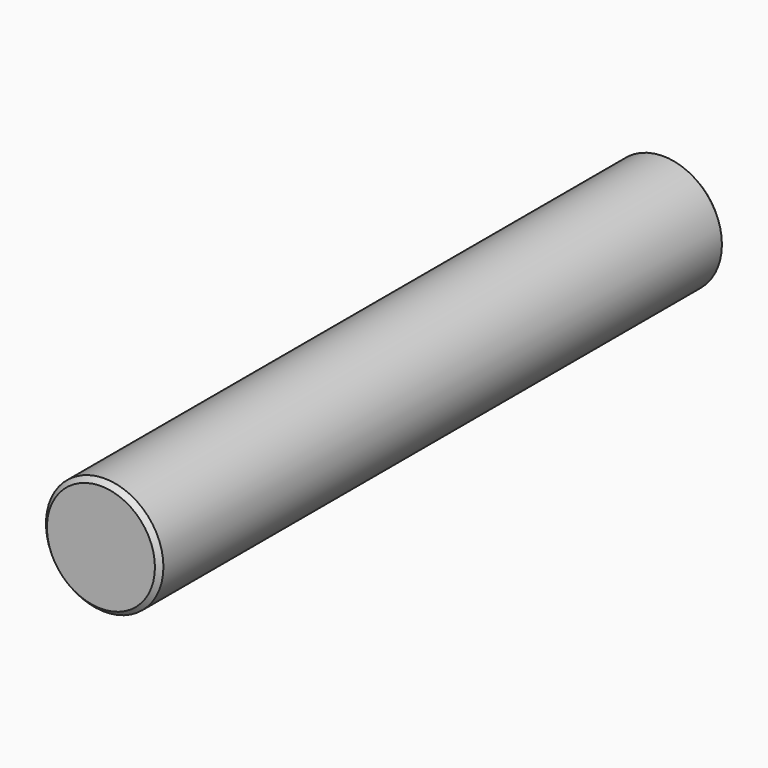
from build123d import *

# Parameters (mm, degrees)
F0_R     = 24.9
F1_DEPTH = 300
F2_SIZE  = 2
F3_SIZE  = 2


with BuildPart() as f1:
    # F0 (on Front) → F1 (new body)
    with BuildSketch(Plane.XZ):
        Circle(F0_R)
    extrude(amount=F1_DEPTH)

    # F2
    f2_edges = [f1.edges().sort_by_distance(p)[0] for p in [
        (-24.9, -300, 0),
    ]]
    chamfer(f2_edges, length=F2_SIZE)

    # F3
    f3_edges = [f1.edges().sort_by_distance(p)[0] for p in [
        (-24.9, 0, 0),
    ]]
    chamfer(f3_edges, length=F3_SIZE)


solid = f1.part
